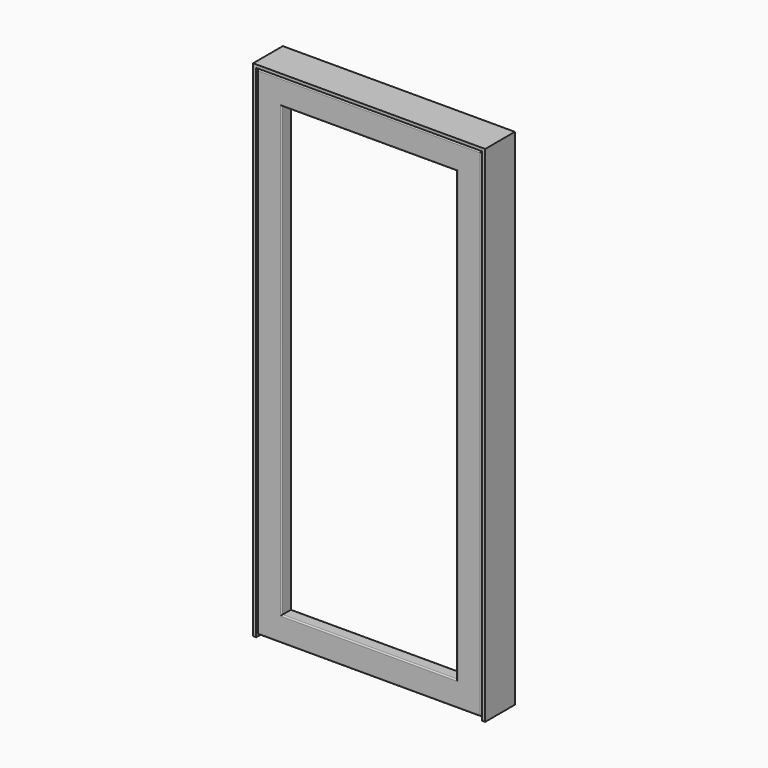
from build123d import *

# Parameters (mm, degrees)
F1_DEPTH = 152.4
F4_DEPTH = 50.8
F5_W     = 920.75
F5_H     = 2041.525
F5_W_2   = 717.55
F5_H_2   = 1838.325
F6_DEPTH = 50.8
F7_R     = 5.08


with BuildPart() as f1:
    # F0 (on Front) → F1 (new body)
    with BuildSketch(Plane.XZ):
        Polygon((476.25, -1035.05), (476.25, 1035.05), (-476.25, 1035.05), (-476.25, -1035.05), (-463.55, -1035.05), (-463.55, 1022.35), (463.55, 1022.35), (463.55, -1035.05), align=None)
    extrude(amount=-F1_DEPTH)

    # F3 (on offset) → F4 (join)
    with BuildSketch(Plane.XZ.offset(-50.8)):
        Polygon((463.55, -1035.05), (463.55, 1022.35), (-463.55, 1022.35), (-463.55, -1035.05), (-450.85, -1035.05), (-450.85, 1009.65), (450.85, 1009.65), (450.85, -1035.05), align=None)
    extrude(amount=-F4_DEPTH)


with BuildPart() as f6:
    # F5 (on face) → F6 (new body)
    with BuildSketch(Plane.XZ):
        with Locations((0, -1.5875)):
            Rectangle(F5_W, F5_H)
        with Locations((0, -1.5875)):
            Rectangle(F5_W_2, F5_H_2, mode=Mode.SUBTRACT)
    extrude(amount=-F6_DEPTH)

    # F7
    f7_edges = [f6.edges().sort_by_distance(p)[0] for p in [
        (460.375, 0, -1.5875),
        (0, 0, 1019.175),
        (-460.375, 0, -1.5875),
        (0, 0, -1022.35),
        (0, 0, -920.75),
        (-358.775, 0, -1.5875),
        (0, 0, 917.575),
        (358.775, 0, -1.5875),
        (460.375, 50.8, -1.5875),
        (0, 50.8, 1019.175),
        (-460.375, 50.8, -1.5875),
        (0, 50.8, -1022.35),
        (0, 50.8, -920.75),
        (-358.775, 50.8, -1.5875),
        (0, 50.8, 917.575),
        (358.775, 50.8, -1.5875),
    ]]
    fillet(f7_edges, radius=F7_R)


solid = Compound([f1.part, f6.part])
